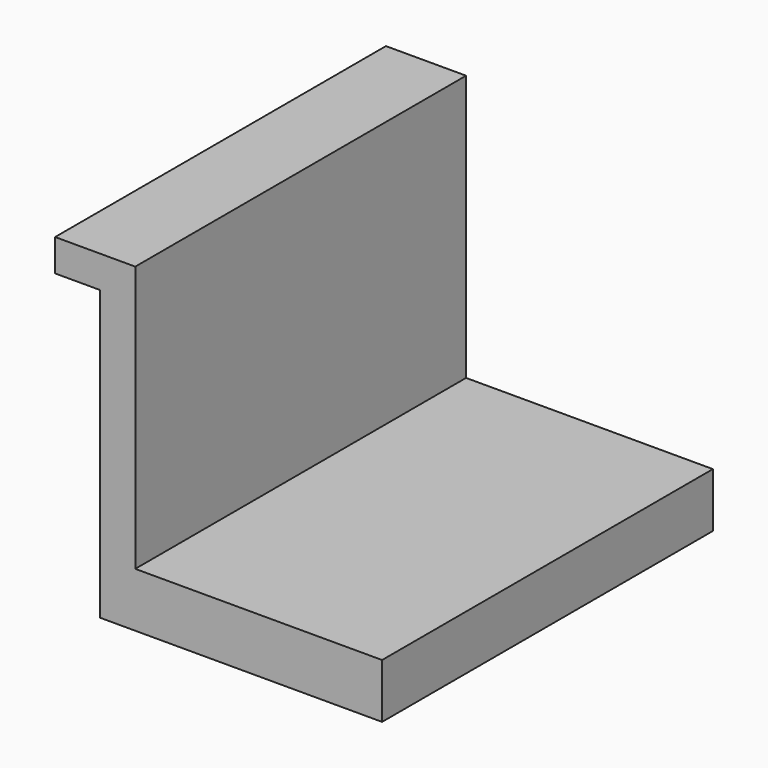
from build123d import *

# Parameters (mm, degrees)
PAD_DEPTH = 64.5


with BuildPart() as part:
    # Sketch → Pad (new body)
    with BuildSketch(Plane.XZ):
        Polygon((0.045854, -0.006254), (0.045854, 44.993746), (-6.954146, 44.993746), (-6.954146, 49.993746), (5.545854, 49.993746), (5.545854, 8.493746), (44.045854, 8.493746), (44.045854, -0.006254), align=None)
    extrude(amount=PAD_DEPTH)


solid = part.part
